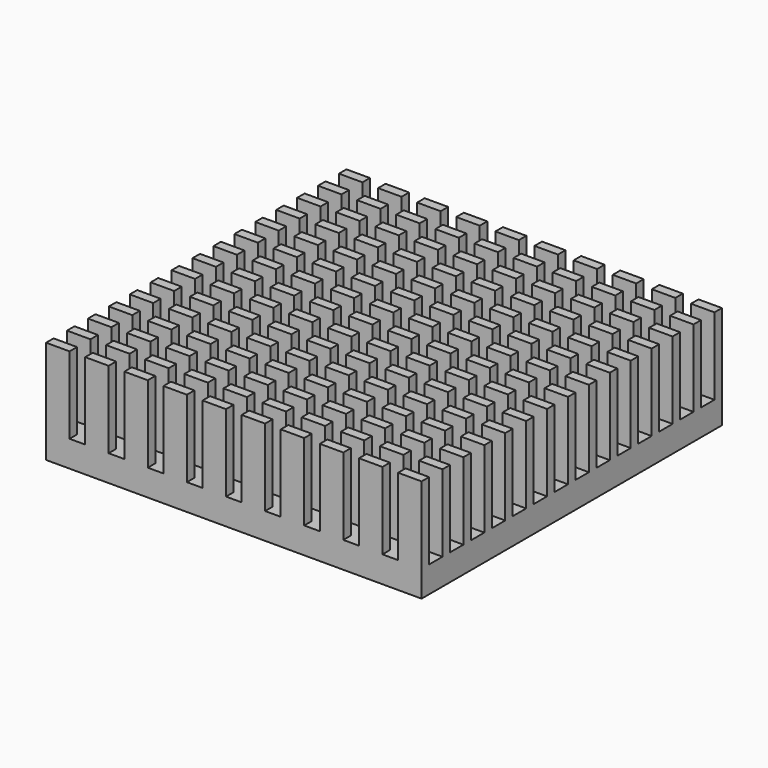
from build123d import *

# Parameters (mm, degrees)
F0_W     = 40
F0_H     = 40
F1_DEPTH = 2.8
F2_W     = 2.5
F2_H     = 1
F3_DEPTH = 8.2


with BuildPart() as f1:
    # F0 (on Top) → F1 (new body)
    with BuildSketch(Plane.XY):
        Rectangle(F0_W, F0_H)
    extrude(amount=F1_DEPTH)

    # F2 (on face) → F3 (join)
    with BuildSketch(Plane.XY.offset(2.8)):
        with Locations((-18.75, 19.5)):
            Rectangle(F2_W, F2_H)
        with Locations((-14.583333, 19.5)):
            Rectangle(F2_W, F2_H)
        with Locations((-10.416667, 19.5)):
            Rectangle(F2_W, F2_H)
        with Locations((-6.25, 19.5)):
            Rectangle(F2_W, F2_H)
        with Locations((-2.083333, 19.5)):
            Rectangle(F2_W, F2_H)
        with Locations((2.083333, 19.5)):
            Rectangle(F2_W, F2_H)
        with Locations((6.25, 19.5)):
            Rectangle(F2_W, F2_H)
        with Locations((10.416667, 19.5)):
            Rectangle(F2_W, F2_H)
        with Locations((14.583333, 19.5)):
            Rectangle(F2_W, F2_H)
        with Locations((18.75, 19.5)):
            Rectangle(F2_W, F2_H)
        with Locations((6.25, 16.714286)):
            Rectangle(F2_W, F2_H)
        with Locations((18.75, 16.714286)):
            Rectangle(F2_W, F2_H)
        with Locations((2.083333, 16.714286)):
            Rectangle(F2_W, F2_H)
        with Locations((10.416667, 16.714286)):
            Rectangle(F2_W, F2_H)
        with Locations((-6.25, 16.714286)):
            Rectangle(F2_W, F2_H)
        with Locations((-18.75, 16.714286)):
            Rectangle(F2_W, F2_H)
        with Locations((-14.583333, 16.714286)):
            Rectangle(F2_W, F2_H)
        with Locations((-10.416667, 16.714286)):
            Rectangle(F2_W, F2_H)
        with Locations((14.583333, 16.714286)):
            Rectangle(F2_W, F2_H)
        with Locations((-2.083333, 16.714286)):
            Rectangle(F2_W, F2_H)
        with Locations((6.25, 13.928571)):
            Rectangle(F2_W, F2_H)
        with Locations((18.75, 13.928571)):
            Rectangle(F2_W, F2_H)
        with Locations((2.083333, 13.928571)):
            Rectangle(F2_W, F2_H)
        with Locations((10.416667, 13.928571)):
            Rectangle(F2_W, F2_H)
        with Locations((-6.25, 13.928571)):
            Rectangle(F2_W, F2_H)
        with Locations((-18.75, 13.928571)):
            Rectangle(F2_W, F2_H)
        with Locations((-14.583333, 13.928571)):
            Rectangle(F2_W, F2_H)
        with Locations((-10.416667, 13.928571)):
            Rectangle(F2_W, F2_H)
        with Locations((14.583333, 13.928571)):
            Rectangle(F2_W, F2_H)
        with Locations((-2.083333, 13.928571)):
            Rectangle(F2_W, F2_H)
        with Locations((6.25, 11.142857)):
            Rectangle(F2_W, F2_H)
        with Locations((18.75, 11.142857)):
            Rectangle(F2_W, F2_H)
        with Locations((2.083333, 11.142857)):
            Rectangle(F2_W, F2_H)
        with Locations((10.416667, 11.142857)):
            Rectangle(F2_W, F2_H)
        with Locations((-6.25, 11.142857)):
            Rectangle(F2_W, F2_H)
        with Locations((-18.75, 11.142857)):
            Rectangle(F2_W, F2_H)
        with Locations((-14.583333, 11.142857)):
            Rectangle(F2_W, F2_H)
        with Locations((-10.416667, 11.142857)):
            Rectangle(F2_W, F2_H)
        with Locations((14.583333, 11.142857)):
            Rectangle(F2_W, F2_H)
        with Locations((-2.083333, 11.142857)):
            Rectangle(F2_W, F2_H)
        with Locations((6.25, 8.357143)):
            Rectangle(F2_W, F2_H)
        with Locations((18.75, 8.357143)):
            Rectangle(F2_W, F2_H)
        with Locations((2.083333, 8.357143)):
            Rectangle(F2_W, F2_H)
        with Locations((10.416667, 8.357143)):
            Rectangle(F2_W, F2_H)
        with Locations((-6.25, 8.357143)):
            Rectangle(F2_W, F2_H)
        with Locations((-18.75, 8.357143)):
            Rectangle(F2_W, F2_H)
        with Locations((-14.583333, 8.357143)):
            Rectangle(F2_W, F2_H)
        with Locations((-10.416667, 8.357143)):
            Rectangle(F2_W, F2_H)
        with Locations((14.583333, 8.357143)):
            Rectangle(F2_W, F2_H)
        with Locations((-2.083333, 8.357143)):
            Rectangle(F2_W, F2_H)
        with Locations((6.25, 5.571429)):
            Rectangle(F2_W, F2_H)
        with Locations((18.75, 5.571429)):
            Rectangle(F2_W, F2_H)
        with Locations((2.083333, 5.571429)):
            Rectangle(F2_W, F2_H)
        with Locations((10.416667, 5.571429)):
            Rectangle(F2_W, F2_H)
        with Locations((-6.25, 5.571429)):
            Rectangle(F2_W, F2_H)
        with Locations((-18.75, 5.571429)):
            Rectangle(F2_W, F2_H)
        with Locations((-14.583333, 5.571429)):
            Rectangle(F2_W, F2_H)
        with Locations((-10.416667, 5.571429)):
            Rectangle(F2_W, F2_H)
        with Locations((14.583333, 5.571429)):
            Rectangle(F2_W, F2_H)
        with Locations((-2.083333, 5.571429)):
            Rectangle(F2_W, F2_H)
        with Locations((6.25, 2.785714)):
            Rectangle(F2_W, F2_H)
        with Locations((18.75, 2.785714)):
            Rectangle(F2_W, F2_H)
        with Locations((2.083333, 2.785714)):
            Rectangle(F2_W, F2_H)
        with Locations((10.416667, 2.785714)):
            Rectangle(F2_W, F2_H)
        with Locations((-6.25, 2.785714)):
            Rectangle(F2_W, F2_H)
        with Locations((-18.75, 2.785714)):
            Rectangle(F2_W, F2_H)
        with Locations((-14.583333, 2.785714)):
            Rectangle(F2_W, F2_H)
        with Locations((-10.416667, 2.785714)):
            Rectangle(F2_W, F2_H)
        with Locations((14.583333, 2.785714)):
            Rectangle(F2_W, F2_H)
        with Locations((-2.083333, 2.785714)):
            Rectangle(F2_W, F2_H)
        with Locations((6.25, 0)):
            Rectangle(F2_W, F2_H)
        with Locations((18.75, 0)):
            Rectangle(F2_W, F2_H)
        with Locations((2.083333, 0)):
            Rectangle(F2_W, F2_H)
        with Locations((10.416667, 0)):
            Rectangle(F2_W, F2_H)
        with Locations((-6.25, 0)):
            Rectangle(F2_W, F2_H)
        with Locations((-18.75, 0)):
            Rectangle(F2_W, F2_H)
        with Locations((-14.583333, 0)):
            Rectangle(F2_W, F2_H)
        with Locations((-10.416667, 0)):
            Rectangle(F2_W, F2_H)
        with Locations((14.583333, 0)):
            Rectangle(F2_W, F2_H)
        with Locations((-2.083333, 0)):
            Rectangle(F2_W, F2_H)
        with Locations((6.25, -2.785714)):
            Rectangle(F2_W, F2_H)
        with Locations((18.75, -2.785714)):
            Rectangle(F2_W, F2_H)
        with Locations((2.083333, -2.785714)):
            Rectangle(F2_W, F2_H)
        with Locations((10.416667, -2.785714)):
            Rectangle(F2_W, F2_H)
        with Locations((-6.25, -2.785714)):
            Rectangle(F2_W, F2_H)
        with Locations((-18.75, -2.785714)):
            Rectangle(F2_W, F2_H)
        with Locations((-14.583333, -2.785714)):
            Rectangle(F2_W, F2_H)
        with Locations((-10.416667, -2.785714)):
            Rectangle(F2_W, F2_H)
        with Locations((14.583333, -2.785714)):
            Rectangle(F2_W, F2_H)
        with Locations((-2.083333, -2.785714)):
            Rectangle(F2_W, F2_H)
        with Locations((6.25, -5.571429)):
            Rectangle(F2_W, F2_H)
        with Locations((18.75, -5.571429)):
            Rectangle(F2_W, F2_H)
        with Locations((2.083333, -5.571429)):
            Rectangle(F2_W, F2_H)
        with Locations((10.416667, -5.571429)):
            Rectangle(F2_W, F2_H)
        with Locations((-6.25, -5.571429)):
            Rectangle(F2_W, F2_H)
        with Locations((-18.75, -5.571429)):
            Rectangle(F2_W, F2_H)
        with Locations((-14.583333, -5.571429)):
            Rectangle(F2_W, F2_H)
        with Locations((-10.416667, -5.571429)):
            Rectangle(F2_W, F2_H)
        with Locations((14.583333, -5.571429)):
            Rectangle(F2_W, F2_H)
        with Locations((-2.083333, -5.571429)):
            Rectangle(F2_W, F2_H)
        with Locations((6.25, -8.357143)):
            Rectangle(F2_W, F2_H)
        with Locations((18.75, -8.357143)):
            Rectangle(F2_W, F2_H)
        with Locations((2.083333, -8.357143)):
            Rectangle(F2_W, F2_H)
        with Locations((10.416667, -8.357143)):
            Rectangle(F2_W, F2_H)
        with Locations((-6.25, -8.357143)):
            Rectangle(F2_W, F2_H)
        with Locations((-18.75, -8.357143)):
            Rectangle(F2_W, F2_H)
        with Locations((-14.583333, -8.357143)):
            Rectangle(F2_W, F2_H)
        with Locations((-10.416667, -8.357143)):
            Rectangle(F2_W, F2_H)
        with Locations((14.583333, -8.357143)):
            Rectangle(F2_W, F2_H)
        with Locations((-2.083333, -8.357143)):
            Rectangle(F2_W, F2_H)
        with Locations((6.25, -11.142857)):
            Rectangle(F2_W, F2_H)
        with Locations((18.75, -11.142857)):
            Rectangle(F2_W, F2_H)
        with Locations((2.083333, -11.142857)):
            Rectangle(F2_W, F2_H)
        with Locations((10.416667, -11.142857)):
            Rectangle(F2_W, F2_H)
        with Locations((-6.25, -11.142857)):
            Rectangle(F2_W, F2_H)
        with Locations((-18.75, -11.142857)):
            Rectangle(F2_W, F2_H)
        with Locations((-14.583333, -11.142857)):
            Rectangle(F2_W, F2_H)
        with Locations((-10.416667, -11.142857)):
            Rectangle(F2_W, F2_H)
        with Locations((14.583333, -11.142857)):
            Rectangle(F2_W, F2_H)
        with Locations((-2.083333, -11.142857)):
            Rectangle(F2_W, F2_H)
        with Locations((6.25, -13.928571)):
            Rectangle(F2_W, F2_H)
        with Locations((18.75, -13.928571)):
            Rectangle(F2_W, F2_H)
        with Locations((2.083333, -13.928571)):
            Rectangle(F2_W, F2_H)
        with Locations((10.416667, -13.928571)):
            Rectangle(F2_W, F2_H)
        with Locations((-6.25, -13.928571)):
            Rectangle(F2_W, F2_H)
        with Locations((-18.75, -13.928571)):
            Rectangle(F2_W, F2_H)
        with Locations((-14.583333, -13.928571)):
            Rectangle(F2_W, F2_H)
        with Locations((-10.416667, -13.928571)):
            Rectangle(F2_W, F2_H)
        with Locations((14.583333, -13.928571)):
            Rectangle(F2_W, F2_H)
        with Locations((-2.083333, -13.928571)):
            Rectangle(F2_W, F2_H)
        with Locations((6.25, -16.714286)):
            Rectangle(F2_W, F2_H)
        with Locations((18.75, -16.714286)):
            Rectangle(F2_W, F2_H)
        with Locations((2.083333, -16.714286)):
            Rectangle(F2_W, F2_H)
        with Locations((10.416667, -16.714286)):
            Rectangle(F2_W, F2_H)
        with Locations((-6.25, -16.714286)):
            Rectangle(F2_W, F2_H)
        with Locations((-18.75, -16.714286)):
            Rectangle(F2_W, F2_H)
        with Locations((-14.583333, -16.714286)):
            Rectangle(F2_W, F2_H)
        with Locations((-10.416667, -16.714286)):
            Rectangle(F2_W, F2_H)
        with Locations((14.583333, -16.714286)):
            Rectangle(F2_W, F2_H)
        with Locations((-2.083333, -16.714286)):
            Rectangle(F2_W, F2_H)
        with Locations((6.25, -19.5)):
            Rectangle(F2_W, F2_H)
        with Locations((18.75, -19.5)):
            Rectangle(F2_W, F2_H)
        with Locations((2.083333, -19.5)):
            Rectangle(F2_W, F2_H)
        with Locations((10.416667, -19.5)):
            Rectangle(F2_W, F2_H)
        with Locations((-6.25, -19.5)):
            Rectangle(F2_W, F2_H)
        with Locations((-18.75, -19.5)):
            Rectangle(F2_W, F2_H)
        with Locations((-14.583333, -19.5)):
            Rectangle(F2_W, F2_H)
        with Locations((-10.416667, -19.5)):
            Rectangle(F2_W, F2_H)
        with Locations((14.583333, -19.5)):
            Rectangle(F2_W, F2_H)
        with Locations((-2.083333, -19.5)):
            Rectangle(F2_W, F2_H)
    extrude(amount=F3_DEPTH)


solid = f1.part
